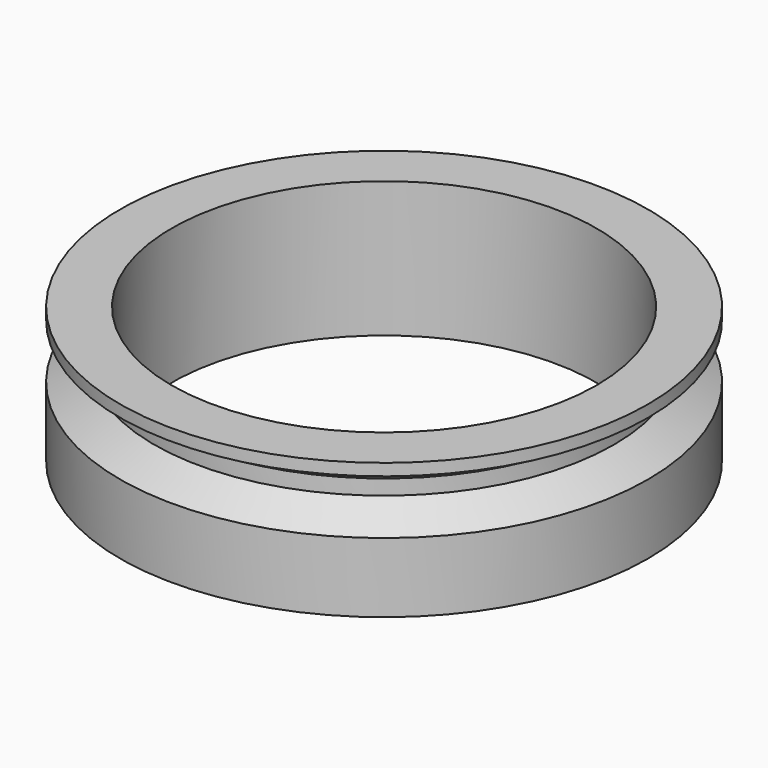
from build123d import *

# Parameters (mm, degrees)
F0_R     = 13.6
F0_R_2   = 10.95
F1_DEPTH = 7


with BuildPart() as f1:
    # F0 (on Top) → F1 (new body)
    with BuildSketch(Plane.XY):
        Circle(F0_R)
        Circle(F0_R_2, mode=Mode.SUBTRACT)
    extrude(amount=F1_DEPTH)

    # F2 (on Front) → F3 (revolve, cut)
    with BuildSketch(Plane.XZ):
        Polygon((13.6, 3.59), (13.6, 6.39), (11.85, 5.379637), (11.85, 4.600363), align=None)
    revolve(axis=Axis((0, 0, 7), (0, 0, 1)), mode=Mode.SUBTRACT)


solid = f1.part
